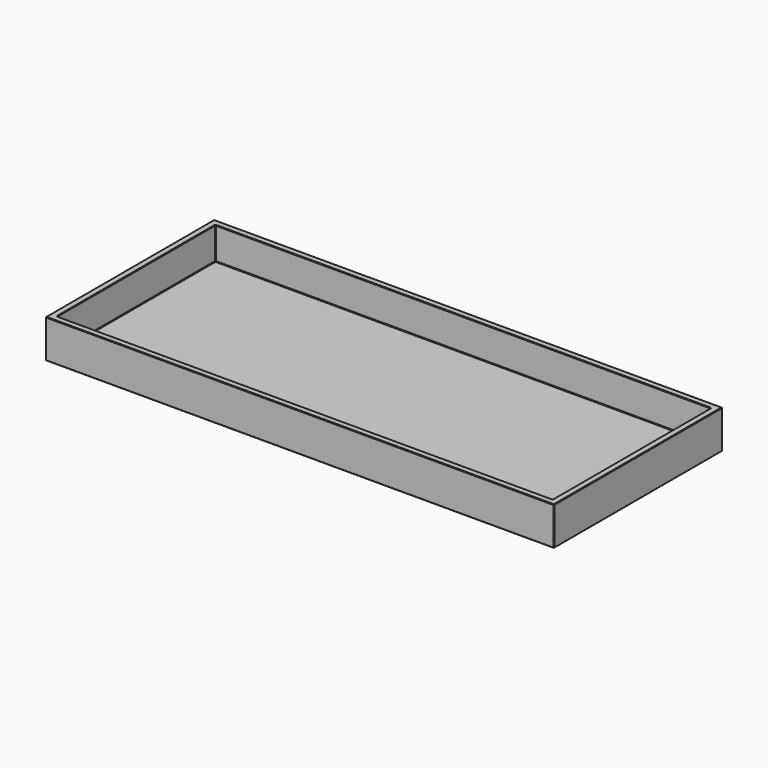
from build123d import *

# Parameters (mm, degrees)
F0_W     = 198
F0_H     = 82
F1_DEPTH = 15
F2_T     = -2.5
F3_SIZE  = 0.2


with BuildPart() as f1:
    # F0 (on Top) → F1 (new body)
    with BuildSketch(Plane.XY):
        Rectangle(F0_W, F0_H)
    extrude(amount=F1_DEPTH)

    # F2
    f2_openings = [f1.faces().sort_by_distance(p)[0] for p in [
        (0, 0, 15),
    ]]
    offset(amount=F2_T, openings=f2_openings)

    # F3
    f3_edges = [f1.edges().sort_by_distance(p)[0] for p in [
        (99, 41, 7.5),
        (99, -41, 7.5),
        (-99, -41, 7.5),
        (0, -41, 0),
        (0, -41, 15),
        (0, 41, 15),
        (-99, 0, 15),
        (99, 0, 0),
        (99, 0, 15),
        (-96.5, 38.5, 8.75),
        (0, -38.5, 15),
        (0, 38.5, 2.5),
        (0, 38.5, 15),
        (-96.5, 0, 2.5),
        (-96.5, 0, 15),
        (96.5, 0, 15),
        (-99, 41, 7.5),
        (0, 41, 0),
        (-99, 0, 0),
        (-96.5, -38.5, 8.75),
        (96.5, -38.5, 8.75),
        (96.5, 38.5, 8.75),
        (0, -38.5, 2.5),
        (96.5, 0, 2.5),
    ]]
    chamfer(f3_edges, length=F3_SIZE)


solid = f1.part
